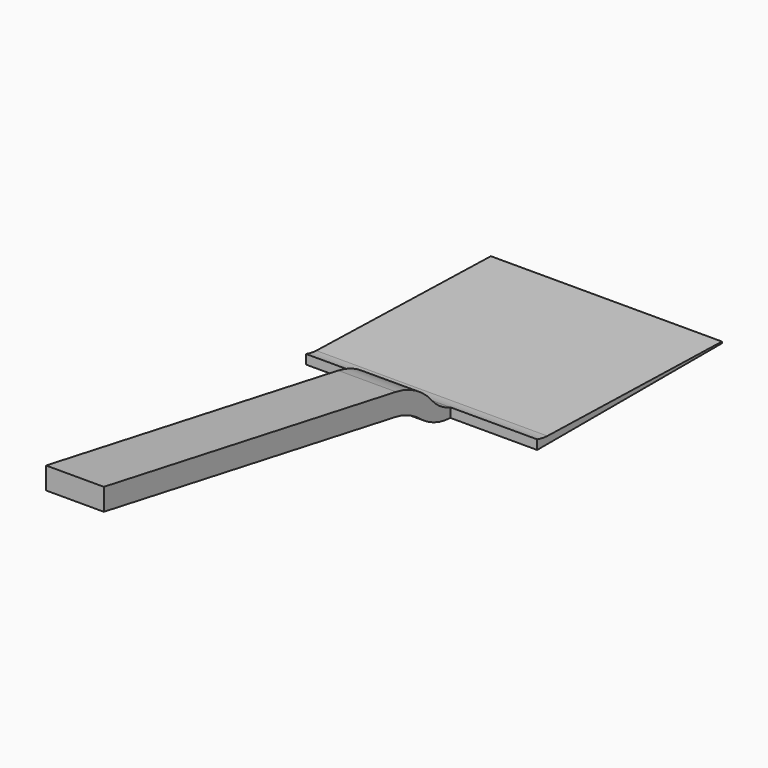
from build123d import *

# Parameters (mm, degrees)
F2_DEPTH = 50.8
F3_DEPTH = 12.7


with BuildPart() as f2:
    # F1 (on Right) → F2 (new body, symmetric)
    with BuildSketch(Plane.YZ):
        with BuildLine():
            Line((-49.474039, 0), (50.8, 0))
            Line((50.8, 0), (50.8, 0.694015))
            Line((50.8, 0.694015), (-45.135033, 3.133388))
            ThreePointArc((-45.135033, 3.133388), (-48.00046, 3.450415), (-50.8, 4.138714))
            Line((-50.8, 4.138714), (-50.8, 0.031258))
            ThreePointArc((-50.8, 0.031258), (-50.137204, 0.007816), (-49.474039, 0))
        make_face()
    extrude(amount=F2_DEPTH, both=True)

    # F1 (on Right) → F3 (join, symmetric)
    with BuildSketch(Plane.YZ):
        with BuildLine():
            ThreePointArc((-67.208497, 6.291893), (-59.50518, 1.848685), (-50.8, 0.031258))
            Line((-50.8, 0.031258), (-50.8, 4.138714))
            ThreePointArc((-50.8, 4.138714), (-56.371573, 6.810591), (-60.982564, 10.923998))
            ThreePointArc((-60.982564, 10.923998), (-69.867315, 18.342651), (-80.744221, 22.300952))
            Line((-80.744221, 22.300952), (-241.3, 50.8))
            Line((-241.3, 50.8), (-241.3, 41.126111))
            Line((-241.3, 41.126111), (-81.272081, 12.72076))
            ThreePointArc((-81.272081, 12.72076), (-73.831328, 10.400957), (-67.208497, 6.291893))
        make_face()
    extrude(amount=F3_DEPTH, both=True)


solid = f2.part
